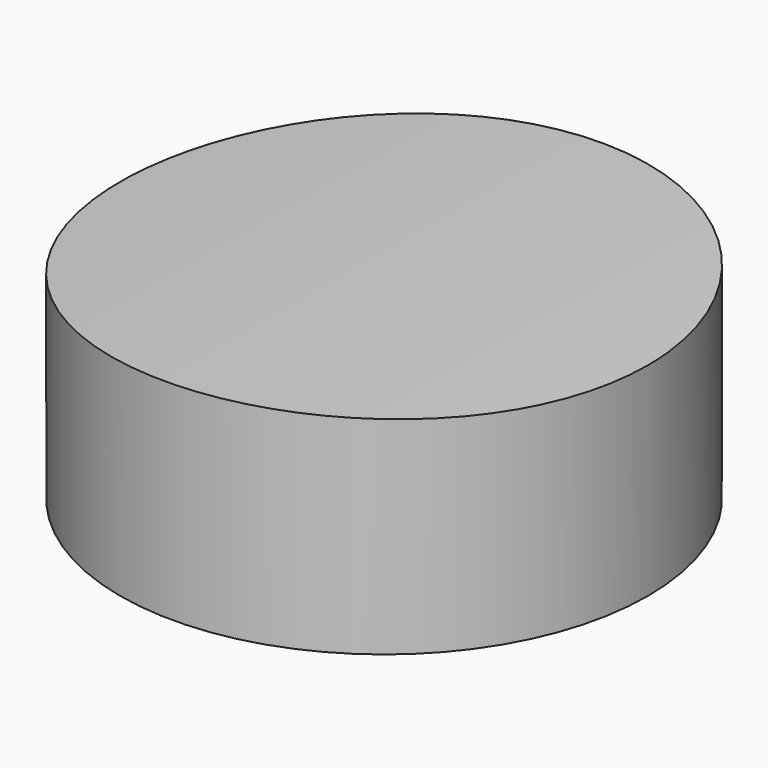
from build123d import *

# Parameters (mm, degrees)
F0_R          = 5
F1_DEPTH      = 4
F3_DEPTH      = 25
F3_DEPTH_BACK = 25


with BuildPart() as f1:
    # F0 (on Top) → F1 (new body)
    with BuildSketch(Plane.XY):
        Circle(F0_R)
    extrude(amount=F1_DEPTH)

    # F2 (on Front) → F3 (cut, two sides)
    with BuildSketch(Plane.XZ) as f3_sk:
        with BuildLine():
            ThreePointArc((-33.81065, -5.975676), (0.585697, 3.947027), (35.18125, -5.257123))
            Line((35.18125, -5.257123), (35.18125, 7.931673))
            Line((35.18125, 7.931673), (-33.81065, 7.931673))
            Line((-33.81065, 7.931673), (-33.81065, -5.975676))
        make_face()
    extrude(amount=F3_DEPTH, mode=Mode.SUBTRACT)
    extrude(f3_sk.sketch, amount=-F3_DEPTH_BACK, mode=Mode.SUBTRACT)


solid = f1.part
